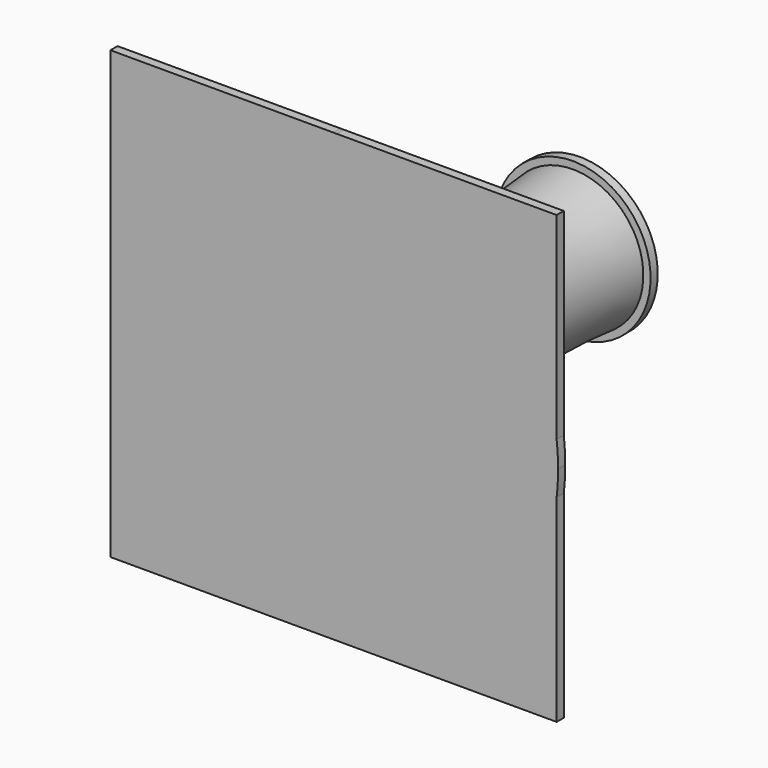
from build123d import *

# Parameters (mm, degrees)
F3_DEPTH = 1
F4_R     = 8.7131724749
F5_DEPTH = 1


with BuildPart() as f1:
    # F0 (on Top) → F1 (revolve)
    with BuildSketch(Plane.XY):
        with BuildLine():
            Line((-3.9494680241, 50.3856427968), (-11.8484050035, 50.3856427968))
            ThreePointArc((-11.8484050035, 50.3856427968), (-12.128128908, 33.9480583368), (-16.3962785155, 18.0718079209))
            Line((-16.3962785155, 18.0718079209), (-3.9494680241, 18.0718079209))
            Line((-3.9494680241, 18.0718079209), (-3.9494680241, 50.3856427968))
        make_face()
    revolve(axis=Axis((-3.9494680241, 34.2287253588, 0), (0, -1, 0)))

    # F2 (on face) → F3 (join)
    with BuildSketch(Plane.XZ.offset(-18.0718079209)):
        with BuildLine():
            ThreePointArc((20.8871186327, -2.8537629964), (21.0096452056, -1.4292189441), (21.0505319759, 0))
            ThreePointArc((21.0505319759, 0), (21.0096452056, 1.4292189441), (20.8871186327, 2.8537629964))
            Line((20.8871186327, 2.8537629964), (20.8871186327, -0.0005340841))
            Line((20.8871186327, -0.0005340841), (20.8871186327, -2.8537629964))
        make_face()
        with BuildLine():
            Line((20.8871186327, -0.0005340841), (20.8871186327, 2.8537629964))
            ThreePointArc((20.8871186327, 2.8537629964), (12.7495750458, 18.6048907696), (-3.7860546809, 24.9994659159))
            Line((-3.7860546809, 24.9994659159), (-4.1128813673, 24.9994659159))
            Line((-4.1128813673, 24.9994659159), (-4.1128813673, -0.0005340841))
            Line((-4.1128813673, -0.0005340841), (20.8871186327, -0.0005340841))
        make_face()
        with BuildLine():
            ThreePointArc((-3.7860546809, 24.9994659159), (12.7495750458, 18.6048907696), (20.8871186327, 2.8537629964))
            Line((20.8871186327, 2.8537629964), (20.8871186327, 24.9994659159))
            Line((20.8871186327, 24.9994659159), (-3.7860546809, 24.9994659159))
        make_face()
        with BuildLine():
            Line((20.8871186327, -25.0005340841), (20.8871186327, -2.8537629964))
            ThreePointArc((20.8871186327, -2.8537629964), (-5.3784203627, -24.9591284947), (-28.9494680184, -0.0005340841))
            Line((-28.9494680184, -0.0005340841), (-29.1128813673, -0.0005340841))
            Line((-29.1128813673, -0.0005340841), (-29.1128813673, -25.0005340841))
            Line((-29.1128813673, -25.0005340841), (20.8871186327, -25.0005340841))
        make_face()
        with BuildLine():
            ThreePointArc((-28.9494680184, -0.0005340841), (-5.3784203627, -24.9591284947), (20.8871186327, -2.8537629964))
            Line((20.8871186327, -2.8537629964), (20.8871186327, -0.0005340841))
            Line((20.8871186327, -0.0005340841), (-4.1128813673, -0.0005340841))
            Line((-4.1128813673, -0.0005340841), (-28.9494680184, -0.0005340841))
        make_face()
        with BuildLine():
            Line((-4.1128813673, 24.9994659159), (-3.7860546809, 24.9994659159))
            ThreePointArc((-3.7860546809, 24.9994659159), (-3.9494680241, 25), (-4.1128813673, 24.9994659159))
        make_face()
        with BuildLine():
            Line((-29.1128813673, -0.0005340841), (-28.9494680184, -0.0005340841))
            ThreePointArc((-28.9494680184, -0.0005340841), (-21.6850069981, 17.6196100213), (-4.1128813673, 24.9994659159))
            Line((-4.1128813673, 24.9994659159), (-29.1128813673, 24.9994659159))
            Line((-29.1128813673, 24.9994659159), (-29.1128813673, -0.0005340841))
        make_face()
        with BuildLine():
            ThreePointArc((-4.1128813673, 24.9994659159), (-21.6850069981, 17.6196100213), (-28.9494680184, -0.0005340841))
            Line((-28.9494680184, -0.0005340841), (-4.1128813673, -0.0005340841))
            Line((-4.1128813673, -0.0005340841), (-4.1128813673, 24.9994659159))
        make_face()
    extrude(amount=F3_DEPTH)

    # F4 (on face) → F5 (join)
    with BuildSketch(Plane(origin=(0, 50.3856427968, 0), x_dir=(-1, 0, 0), z_dir=(0, 1, 0))):
        with Locations((3.9494680241, 0)):
            Circle(F4_R)
    extrude(amount=F5_DEPTH)


solid = f1.part
